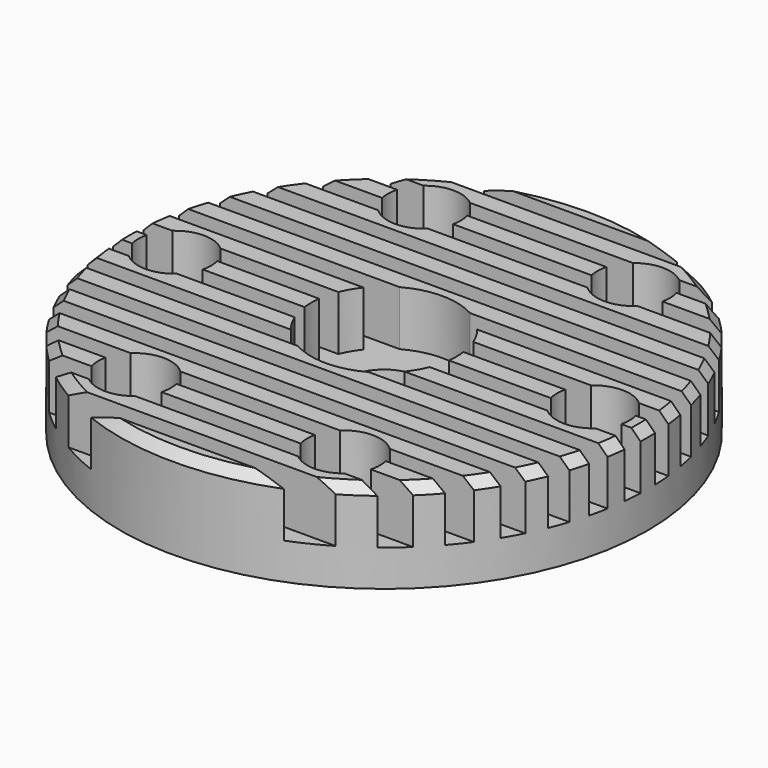
from build123d import *

# Parameters (mm, degrees)
F0_R      = 14.5
F1_DEPTH  = 5
F2_W      = 1
F2_H      = 3
F3_DEPTH  = 15
F4_R      = 8
F5_DEPTH  = 1
F6_R      = 4
F7_DEPTH  = 3
F8_R      = 2.05
F9_DEPTH  = 25
F10_R     = 2
F11_DEPTH = 3
F12_R     = 1.25
F13_DEPTH = 25


with BuildPart() as f1:
    # F0 (on Top) → F1 (new body)
    with BuildSketch(Plane.XY):
        Circle(F0_R)
    extrude(amount=F1_DEPTH)

    # F2 (on Right) → F3 (cut, symmetric)
    with BuildSketch(Plane.YZ):
        with Locations((-1, 3.5)):
            Rectangle(F2_W, F2_H)
        with Locations((-13, 3.5)):
            Rectangle(F2_W, F2_H)
        with Locations((-11, 3.5)):
            Rectangle(F2_W, F2_H)
        with Locations((-9, 3.5)):
            Rectangle(F2_W, F2_H)
        with Locations((-7, 3.5)):
            Rectangle(F2_W, F2_H)
        with Locations((-5, 3.5)):
            Rectangle(F2_W, F2_H)
        with Locations((-3, 3.5)):
            Rectangle(F2_W, F2_H)
        with Locations((13, 3.5)):
            Rectangle(F2_W, F2_H)
        with Locations((11, 3.5)):
            Rectangle(F2_W, F2_H)
        with Locations((9, 3.5)):
            Rectangle(F2_W, F2_H)
        with Locations((7, 3.5)):
            Rectangle(F2_W, F2_H)
        with Locations((5, 3.5)):
            Rectangle(F2_W, F2_H)
        with Locations((3, 3.5)):
            Rectangle(F2_W, F2_H)
        with Locations((1, 3.5)):
            Rectangle(F2_W, F2_H)
    extrude(amount=F3_DEPTH, both=True, mode=Mode.SUBTRACT)

    # F4 (on face) → F5 (cut)
    with BuildSketch(Plane(origin=(0, 0, 0), x_dir=(1, 0, 0), z_dir=(0, 0, -1))):
        Circle(F4_R)
    extrude(amount=-F5_DEPTH, mode=Mode.SUBTRACT)

    # F6 (on face) → F7 (cut)
    with BuildSketch(Plane.XY.offset(5)):
        Circle(F6_R)
    extrude(amount=-F7_DEPTH, mode=Mode.SUBTRACT)

    # F8 (on face) → F9 (cut)
    with BuildSketch(Plane.XY.offset(2)):
        Circle(F8_R)
    extrude(amount=-F9_DEPTH, mode=Mode.SUBTRACT)

    # F10 (on face) → F11 (cut)
    with BuildSketch(Plane.XY.offset(5)):
        with BuildLine():
            ThreePointArc((4.75, 8.227241336), (6.75, 8.227241336), (7.75, 9.9592921435))
            ThreePointArc((7.75, 9.9592921435), (4.75, 11.6913429511), (4.75, 8.227241336))
        make_face()
        with Locations((-5.75, 9.9592921435)):
            Circle(F10_R)
        with Locations((-11.5, 0)):
            Circle(F10_R)
        with Locations((-5.75, -9.9592921435)):
            Circle(F10_R)
        with Locations((5.75, -9.9592921435)):
            Circle(F10_R)
        with Locations((11.5, 0)):
            Circle(F10_R)
    extrude(amount=-F11_DEPTH, mode=Mode.SUBTRACT)

    # F12 (on face) → F13 (cut)
    with BuildSketch(Plane.XY.offset(2)):
        with Locations((5.75, 9.9592921435)):
            Circle(F12_R)
        with Locations((-5.75, 9.9592921435)):
            Circle(F12_R)
        with Locations((-11.5, 0)):
            Circle(F12_R)
        with Locations((-5.75, -9.9592921435)):
            Circle(F12_R)
        with Locations((5.75, -9.9592921435)):
            Circle(F12_R)
        with Locations((11.5, 0)):
            Circle(F12_R)
    extrude(amount=-F13_DEPTH, mode=Mode.SUBTRACT)

    # F14 (on Front) → F15 (revolve, cut)
    with BuildSketch(Plane.XZ):
        Polygon((14.5, 5), (14, 5), (14.5, 4.5), align=None)
    revolve(axis=Axis((0, 0, 0), (0, 0, 1)), mode=Mode.SUBTRACT)


solid = f1.part
